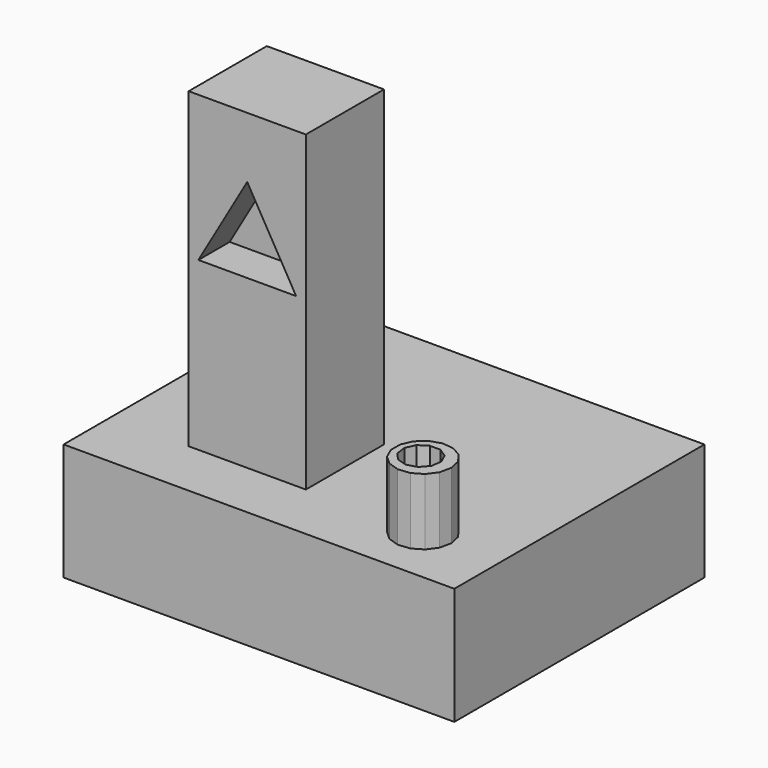
from build123d import *

# Parameters (mm, degrees)
F0_W     = 100
F0_H     = 80
F1_DEPTH = 30
F2_W     = 30
F2_H     = 25
F3_DEPTH = 80
F5_DEPTH = 10
F7_DEPTH = 17
F9_DEPTH = 16


with BuildPart() as f1:
    # F0 (on Top) → F1 (new body)
    with BuildSketch(Plane.XY):
        Rectangle(F0_W, F0_H)
    extrude(amount=F1_DEPTH)

    # F2 (on face) → F3 (join)
    with BuildSketch(Plane.XY.offset(30)):
        with Locations((-15, -12.5)):
            Rectangle(F2_W, F2_H)
    extrude(amount=F3_DEPTH)

    # F4 (on face) → F5 (cut)
    with BuildSketch(Plane.XZ.offset(25)):
        Polygon((-27.5, 72.783122), (-2.5, 72.783122), (-15, 94.433757), align=None)
    extrude(amount=-F5_DEPTH, mode=Mode.SUBTRACT)

    # F6 (on face) → F7 (join)
    with BuildSketch(Plane.XY.offset(30)):
        Polygon((22.943055, -23.5), (22.943055, -26.5), (24.163265, -29.240636), (26.392699, -31.248028), (29.245869, -32.175079), (32.229434, -31.861494), (34.827511, -30.361494), (36.590866, -27.934443), (37.214602, -25), (36.590866, -22.065557), (34.827511, -19.638506), (32.229434, -18.138506), (29.245869, -17.824921), (26.392699, -18.751972), (24.163265, -20.759364), align=None)
    extrude(amount=F7_DEPTH)

    # F8 (on face) → F9 (cut)
    with BuildSketch(Plane.XY.offset(47)):
        Polygon((25.624484, -21.686973), (24.502864, -24.14298), (24.887114, -26.815498), (26.655238, -28.856021), (29.245869, -29.616699), (31.8365, -28.856021), (33.604624, -26.815498), (33.988874, -24.14298), (32.867253, -21.686973), (30.595869, -20.227243), (27.895869, -20.227243), align=None)
    extrude(amount=-F9_DEPTH, mode=Mode.SUBTRACT)


solid = f1.part
